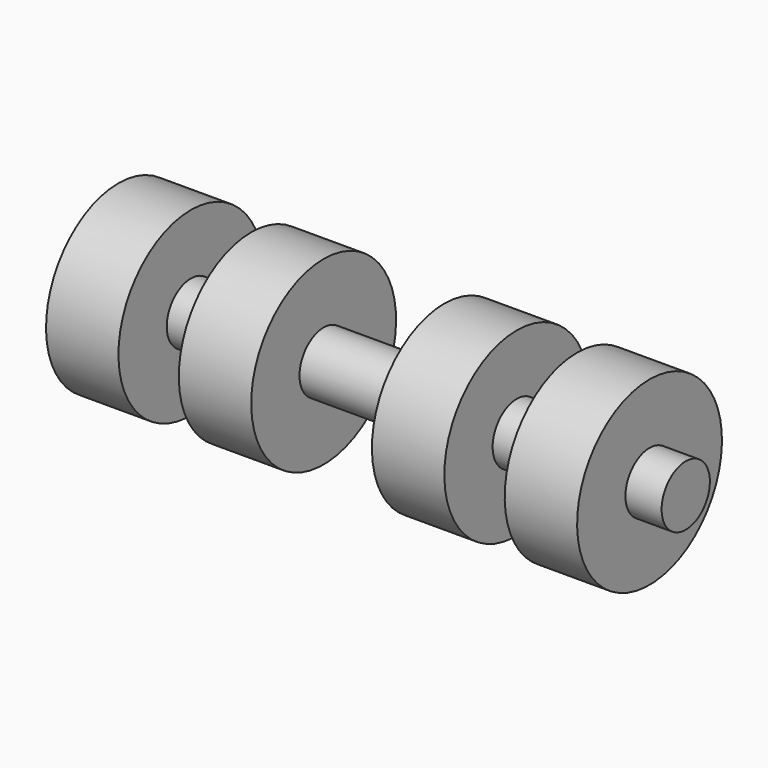
from build123d import *


with BuildPart() as f1:
    # F0 (on Front) → F1 (revolve)
    with BuildSketch(Plane.XZ):
        Polygon((-100, 0), (0, 0), (0, 5), (-6, 5), (-6, 15), (-18, 15), (-18, 5), (-28, 5), (-28, 15), (-40, 15), (-40, 5), (-60, 5), (-60, 15), (-72, 15), (-72, 5), (-82, 5), (-82, 15), (-94, 15), (-94, 5), (-100, 5), align=None)
    revolve(axis=Axis((-44.310086, 0, 0), (-1, 0, 0)))


solid = f1.part
